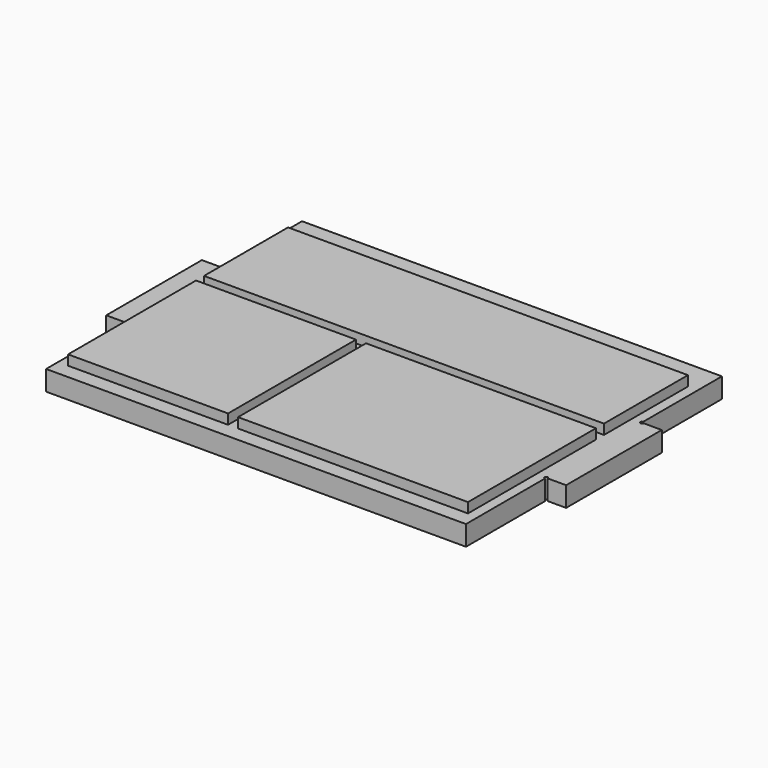
from build123d import *

# Parameters (mm, degrees)
F0_W     = 133.35
F0_H     = 101.6
F1_DEPTH = 6.35
F2_W     = 6.35
F2_H     = 37.973
F3_DEPTH = 6.35
F4_W     = 127
F4_H     = 33.3375
F4_H_2   = 50.8
F5_DEPTH = 3.175
F6_W     = 3.175
F6_H     = 50.8
F7_DEPTH = 3.175
F9_DEPTH = 9.526


with BuildPart() as f1:
    # F0 (on Top) → F1 (new body)
    with BuildSketch(Plane.XY):
        Rectangle(F0_W, F0_H)
    extrude(amount=F1_DEPTH)

    # F2 (on face) → F3 (join)
    with BuildSketch(Plane.XY.offset(6.35)):
        with Locations((-69.85, 0)):
            Rectangle(F2_W, F2_H)
        with Locations((69.85, 0)):
            Rectangle(F2_W, F2_H)
    extrude(amount=-F3_DEPTH)

    # F4 (on face) → F5 (join)
    with BuildSketch(Plane.XY.offset(6.35)):
        with Locations((0, 24.60625)):
            Rectangle(F4_W, F4_H)
        with Locations((0, -20.6375)):
            Rectangle(F4_W, F4_H_2)
    extrude(amount=F5_DEPTH)

    # F6 (on face) → F7 (cut)
    with BuildSketch(Plane.XY.offset(9.525)):
        with Locations((-11.1125, -20.6375)):
            Rectangle(F6_W, F6_H)
    extrude(amount=-F7_DEPTH, mode=Mode.SUBTRACT)

    # F8 (on face) → F9 (cut, through all)
    with BuildSketch(Plane(origin=(0, 0, 0), x_dir=(1, 0, 0), z_dir=(0, 0, -1))):
        with BuildLine():
            ThreePointArc((-67.183, 18.9865), (-66.31579, 18.62729), (-66.675, 19.4945))
            Line((-66.675, 19.4945), (-66.675, 18.9865))
            Line((-66.675, 18.9865), (-67.183, 18.9865))
        make_face()
        with BuildLine():
            Line((-66.675, -18.9865), (-66.675, -19.4945))
            ThreePointArc((-66.675, -19.4945), (-66.31579, -18.62729), (-67.183, -18.9865))
            Line((-67.183, -18.9865), (-66.675, -18.9865))
        make_face()
        with BuildLine():
            ThreePointArc((67.183, -18.9865), (66.31579, -18.62729), (66.675, -19.4945))
            Line((66.675, -19.4945), (66.675, -18.9865))
            Line((66.675, -18.9865), (67.183, -18.9865))
        make_face()
        with BuildLine():
            ThreePointArc((66.675, 19.4945), (66.31579, 18.62729), (67.183, 18.9865))
            Line((67.183, 18.9865), (66.675, 18.9865))
            Line((66.675, 18.9865), (66.675, 19.4945))
        make_face()
        with BuildLine():
            ThreePointArc((-67.183, 18.9865), (-66.31579, 18.62729), (-66.675, 19.4945))
            Line((-66.675, 19.4945), (-66.675, 18.9865))
            Line((-66.675, 18.9865), (-67.183, 18.9865))
        make_face()
        with BuildLine():
            Line((66.675, 18.9865), (66.675, 19.4945))
            ThreePointArc((66.675, 19.4945), (66.31579, 18.62729), (67.183, 18.9865))
            Line((67.183, 18.9865), (66.675, 18.9865))
        make_face()
        with BuildLine():
            Line((66.675, -18.9865), (67.183, -18.9865))
            ThreePointArc((67.183, -18.9865), (66.31579, -18.62729), (66.675, -19.4945))
            Line((66.675, -19.4945), (66.675, -18.9865))
        make_face()
        with BuildLine():
            ThreePointArc((-66.675, -19.4945), (-66.31579, -18.62729), (-67.183, -18.9865))
            Line((-67.183, -18.9865), (-66.675, -18.9865))
            Line((-66.675, -18.9865), (-66.675, -19.4945))
        make_face()
    extrude(amount=-F9_DEPTH, mode=Mode.SUBTRACT)


solid = f1.part
